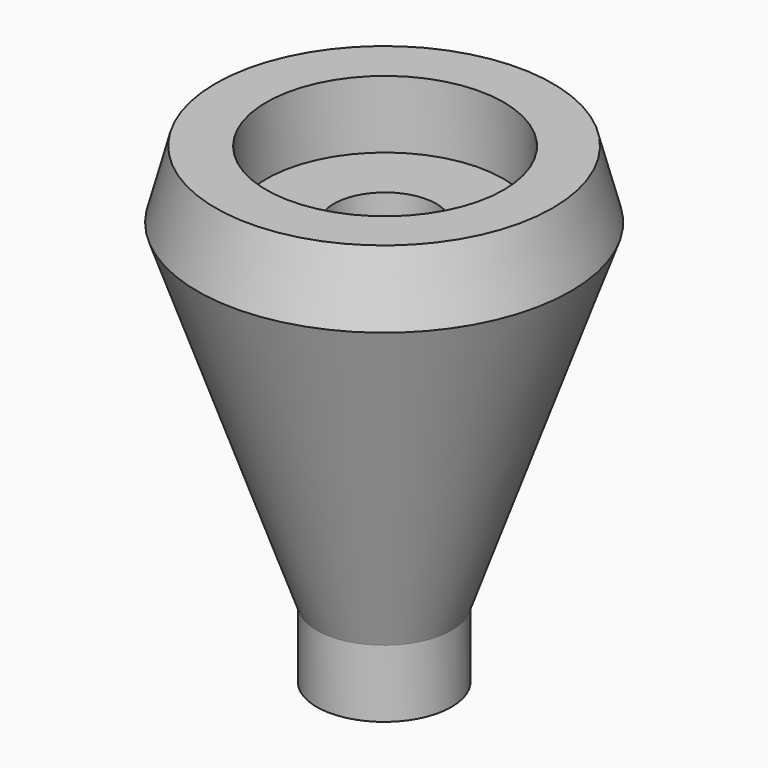
from build123d import *

# Parameters (mm, degrees)
F2_R     = 4.826
F3_DEPTH = 38.1
F2_R_2   = 11.176
F4_DEPTH = 6.35


with BuildPart() as f1:
    # F0 (on Front) → F1 (revolve)
    with BuildSketch(Plane.XZ):
        Polygon((-16.98684, -24.258915), (-10.63684, -24.258915), (-10.63684, -17.908915), (0.589637, 13.841085), (-1.11184, 20.191085), (-16.98684, 20.191085), align=None)
    revolve(axis=Axis((-16.98684, 0, -2.033915), (0, 0, -1)))

    # F2 (on face) → F3 (cut)
    with BuildSketch(Plane.XY.offset(20.191085)):
        with Locations((-16.900598, 0)):
            Circle(F2_R)
    extrude(amount=-F3_DEPTH, mode=Mode.SUBTRACT)

    # F2 (on face) → F4 (cut)
    with BuildSketch(Plane.XY.offset(20.191085)):
        with Locations((-16.900598, 0)):
            Circle(F2_R_2)
        with Locations((-16.900598, 0)):
            Circle(F2_R, mode=Mode.SUBTRACT)
    extrude(amount=-F4_DEPTH, mode=Mode.SUBTRACT)


solid = f1.part
